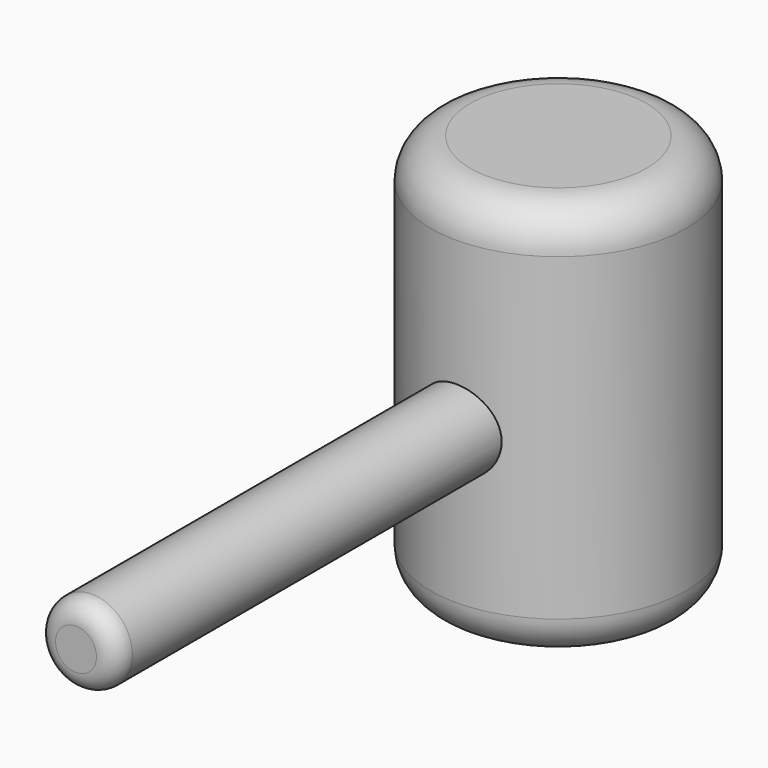
from build123d import *

# Parameters (mm, degrees)
F0_R     = 32.084597
F1_DEPTH = 100
F2_R     = 10
F4_R     = 10.133801
F5_DEPTH = 125
F6_R     = 5


with BuildPart() as f1:
    # F0 (on Top) → F1 (new body)
    with BuildSketch(Plane.XY):
        Circle(F0_R)
    extrude(amount=F1_DEPTH)

    # F2
    f2_edges = [f1.edges().sort_by_distance(p)[0] for p in [
        (-32.084597, 0, 100),
        (-32.084597, 0, 0),
    ]]
    fillet(f2_edges, radius=F2_R)

    # F4 (on offset) → F5 (join)
    with BuildSketch(Plane.XZ.offset(26.2)):
        with Locations((0, 48.1227)):
            Circle(F4_R)
    extrude(amount=F5_DEPTH)

    # F6
    f6_edges = [f1.edges().sort_by_distance(p)[0] for p in [
        (-10.133801, -151.2, 48.1227),
    ]]
    fillet(f6_edges, radius=F6_R)


solid = f1.part
